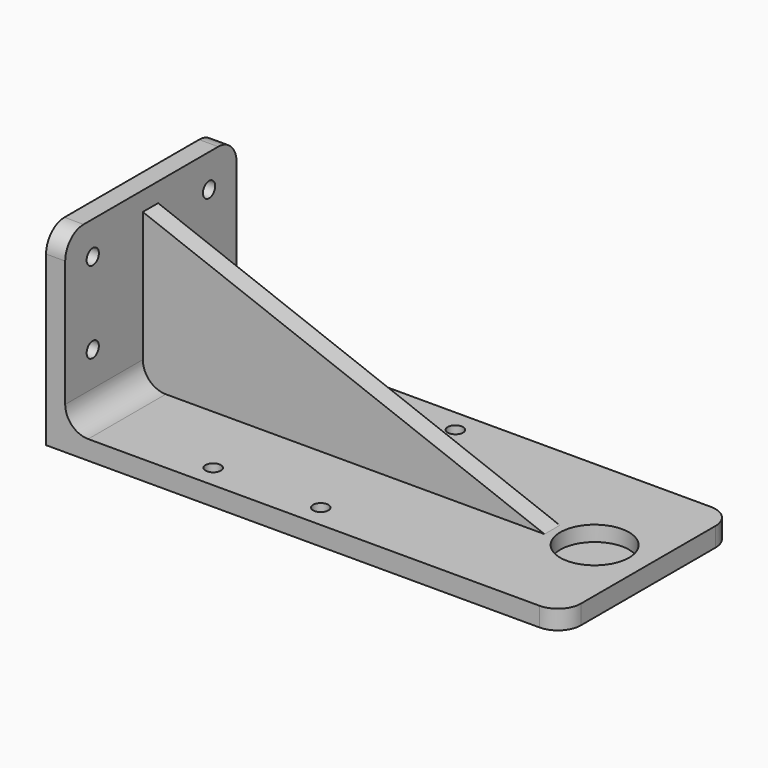
from build123d import *

# Parameters (mm, degrees)
F1_DEPTH = 50
F0_R     = 2
F0_R_2   = 9
F2_DEPTH = 5
F3_R     = 6
F4_DEPTH = 1
F0_W     = 105
F0_H     = 5
F5_DEPTH = 45
F7_DEPTH = 25
F8_R     = 2
F9_DEPTH = 25


with BuildPart() as f1:
    # F0 (on Top) → F1 (new body)
    with BuildSketch(Plane.XY):
        Polygon((-70, -28), (-65, -28), (-65, -2.640025), (-65, 2.359975), (-65, 28), (-70, 28), align=None)
    extrude(amount=F1_DEPTH)

    # F0 (on Top) → F2 (join)
    with BuildSketch(Plane.XY):
        Polygon((-65, -28), (65, -28), (65, 28), (-65, 28), (-65, 2.359975), (40, 2.359975), (40, -2.640025), (-65, -2.640025), align=None)
        with Locations((-31.100778, -22)):
            Circle(F0_R, mode=Mode.SUBTRACT)
        with Locations((-3, -22)):
            Circle(F0_R, mode=Mode.SUBTRACT)
        with Locations((-31.100778, 22)):
            Circle(F0_R, mode=Mode.SUBTRACT)
        with Locations((-3, 22)):
            Circle(F0_R, mode=Mode.SUBTRACT)
        with Locations((51, 0)):
            Circle(F0_R_2, mode=Mode.SUBTRACT)
    extrude(amount=F2_DEPTH)

    # F3
    f3_edges = [f1.edges().sort_by_distance(p)[0] for p in [
        (-67.5, 28, 50),
        (-67.5, -28, 50),
        (65, -28, 2.5),
        (65, 28, 2.5),
        (-65, -15.320012, 5),
        (-65, 15.179988, 5),
    ]]
    fillet(f3_edges, radius=F3_R)

    # F0 (on Top) → F4 (join)
    with BuildSketch(Plane.XY):
        with Locations((51, 0)):
            Circle(F0_R_2)
    extrude(amount=F4_DEPTH)

    # F0 (on Top) → F5 (join)
    with BuildSketch(Plane.XY):
        with Locations((-12.5, -0.140025)):
            Rectangle(F0_W, F0_H)
    extrude(amount=F5_DEPTH)

    # F6 (on face) → F7 (cut)
    with BuildSketch(Plane.XZ.offset(2.640025)):
        Polygon((40, 45), (-65, 45), (40, 5), align=None)
    extrude(amount=-F7_DEPTH, mode=Mode.SUBTRACT)

    # F8 (on face) → F9 (cut)
    with BuildSketch(Plane(origin=(-70, 0, 0), x_dir=(0, -1, 0), z_dir=(-1, 0, 0))):
        with Locations((-19, 41.354249)):
            Circle(F8_R)
        with Locations((-19, 20)):
            Circle(F8_R)
        with Locations((19, 41.354249)):
            Circle(F8_R)
        with Locations((19, 20)):
            Circle(F8_R)
    extrude(amount=-F9_DEPTH, mode=Mode.SUBTRACT)


solid = f1.part
